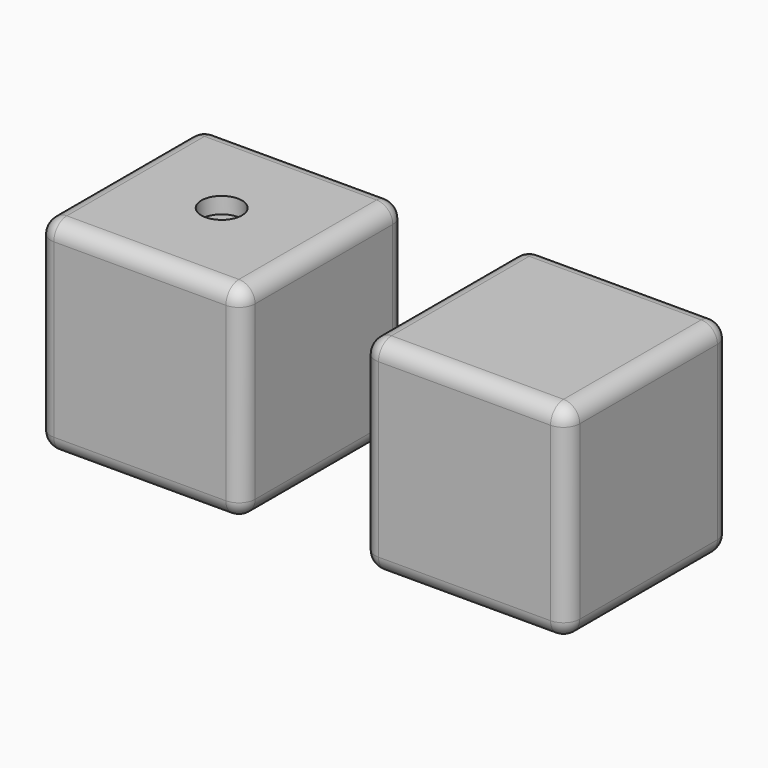
from build123d import *

# Parameters (mm, degrees)
F1_W     = 16
F1_H     = 16
F2_DEPTH = 16
F3_R     = 1.27
F3_2_R   = 1.27
F4_R     = 1.5875
F5_DEPTH = 1.27


with BuildPart() as f2:
    # F1 (on Top) → F2 (new body)
    with BuildSketch(Plane.XY):
        with Locations((-31.1533497572, 6.8082849886)):
            Rectangle(F1_W, F1_H)
    extrude(amount=F2_DEPTH)

    # F3
    f3_edges = [f2.edges().sort_by_distance(p)[0] for p in [
        (-23.15335, 6.808285, 0),
        (-39.15335, 6.808285, 16),
        (-31.15335, -1.191715, 16),
        (-23.15335, 14.808285, 8),
        (-23.15335, -1.191715, 8),
        (-31.15335, 14.808285, 16),
        (-39.15335, -1.191715, 8),
        (-23.15335, 6.808285, 16),
        (-31.15335, -1.191715, 0),
        (-39.15335, 14.808285, 8),
        (-39.15335, 6.808285, 0),
        (-31.15335, 14.808285, 0),
    ]]
    fillet(f3_edges, radius=F3_R)

    # F4 (on face) → F5 (cut)
    with BuildSketch(Plane.XY.offset(16)):
        with Locations((-31.1533497572, 6.8082849886)):
            Circle(F4_R)
    extrude(amount=-F5_DEPTH, mode=Mode.SUBTRACT)


with BuildPart() as f2b:
    # F1 (on Top) → F2, piece 2 (new body)
    with BuildSketch(Plane.XY):
        with Locations((-5.7533497572, 6.8082849886)):
            Rectangle(F1_W, F1_H)
    extrude(amount=F2_DEPTH)

    # F3#2
    f3_2_edges = [f2b.edges().sort_by_distance(p)[0] for p in [
        (-5.75335, -1.191715, 0),
        (2.24665, 6.808285, 0),
        (-13.75335, -1.191715, 8),
        (-5.75335, -1.191715, 16),
        (2.24665, -1.191715, 8),
        (2.24665, 14.808285, 8),
        (-13.75335, 6.808285, 16),
        (-5.75335, 14.808285, 16),
        (2.24665, 6.808285, 16),
        (-13.75335, 6.808285, 0),
        (-5.75335, 14.808285, 0),
        (-13.75335, 14.808285, 8),
    ]]
    fillet(f3_2_edges, radius=F3_2_R)


solid = Compound([f2.part, f2b.part])
